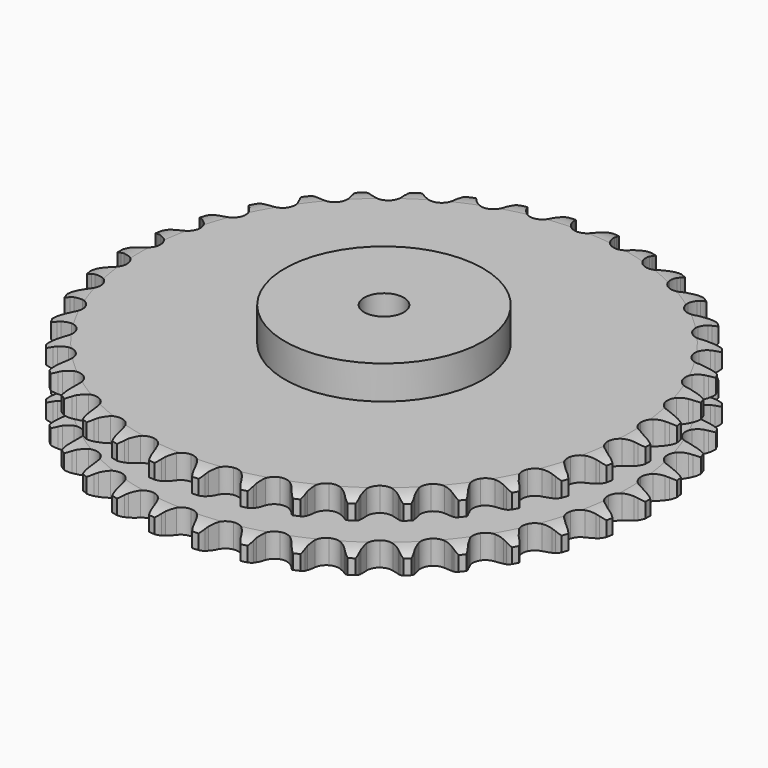
from build123d import *

# Parameters (mm, degrees)
PAD_DEPTH         = 54.6
SKETCH001_R       = 75
PAD001_DEPTH      = 80
SKETCH002_R       = 15
POCKET_DEPTH      = 0.001
POCKET_DEPTH_BACK = 80.001


with BuildPart() as part:
    # Sprocket → Pad (new body)
    with BuildSketch(Plane.XY):
        with BuildLine():
            ThreePointArc((-16.737283, 201.988964), (-13.941774, 198.981837), (-12.034984, 195.345653))
            Line((-12.034984, 195.345653), (-11.105949, 192.800429))
            ThreePointArc((-11.105949, 192.800429), (-9.638977, 189.53386), (-7.717763, 186.512036))
            ThreePointArc((-7.717763, 186.512036), (-4.319859, 183.6542), (0, 182.628629))
            ThreePointArc((0, 182.628629), (4.319859, 183.6542), (7.717763, 186.512036))
            ThreePointArc((7.717763, 186.512036), (9.638977, 189.53386), (11.105949, 192.800429))
            Line((11.105949, 192.800429), (12.034984, 195.345653))
            ThreePointArc((12.034984, 195.345653), (13.941774, 198.981837), (16.737283, 201.988964))
            ThreePointArc((16.737283, 201.988964), (18.999707, 198.562725), (20.281995, 194.662286))
            Line((20.281995, 194.662286), (20.779429, 191.998861))
            ThreePointArc((20.779429, 191.998861), (21.688734, 188.535388), (23.086369, 185.238557))
            ThreePointArc((23.086369, 185.238557), (25.967546, 181.860422), (30.059684, 180.137812))
            ThreePointArc((30.059684, 180.137812), (34.489429, 180.438371), (38.311375, 182.697953))
            Line((38.311375, 182.697953), (42.688386, 188.342903))
            ThreePointArc((42.688386, 188.342903), (43.323878, 189.539913), (44.02368, 190.7005))
            ThreePointArc((44.02368, 190.7005), (46.502961, 193.973243), (49.755299, 196.479232))
            ThreePointArc((49.755299, 196.479232), (51.422926, 192.727339), (52.045735, 188.66904))
            Line((52.045735, 188.66904), (52.097998, 185.960065))
            ThreePointArc((52.097998, 185.960065), (52.424833, 182.394163), (53.260766, 178.912253))
            ThreePointArc((53.260766, 178.912253), (55.546625, 175.105965), (59.299419, 172.733306))
            ThreePointArc((59.299419, 172.733306), (63.718218, 172.300653), (67.859952, 173.900346))
            Line((67.859952, 173.900346), (73.106395, 178.747874))
            ThreePointArc((73.106395, 178.747874), (73.930241, 179.82396), (74.811525, 180.853534))
            ThreePointArc((74.811525, 180.853534), (77.795667, 183.673565), (81.41612, 185.610058))
            ThreePointArc((81.41612, 185.610058), (82.443462, 181.634854), (82.389802, 177.529393))
            Line((82.389802, 177.529393), (81.99547, 174.848764))
            ThreePointArc((81.99547, 174.848764), (81.730919, 171.2777), (81.982347, 167.705689))
            ThreePointArc((81.982347, 167.705689), (83.610536, 163.575074), (86.92162, 160.617085))
            ThreePointArc((86.92162, 160.617085), (91.20894, 159.463023), (95.557487, 160.359191))
            Line((95.557487, 160.359191), (101.530252, 164.277069))
            ThreePointArc((101.530252, 164.277069), (102.51998, 165.202878), (103.558707, 166.073355))
            ThreePointArc((103.558707, 166.073355), (106.966311, 168.363751), (110.856122, 169.677926))
            ThreePointArc((110.856122, 169.677926), (111.215155, 165.587843), (110.48649, 161.547208))
            Line((110.48649, 161.547208), (109.65632, 158.968044))
            ThreePointArc((109.65632, 158.968044), (108.807599, 155.489229), (108.467664, 151.924551))
            ThreePointArc((108.467664, 151.924551), (109.393769, 147.582281), (112.172825, 144.119649))
            ThreePointArc((112.172825, 144.119649), (116.21172, 142.275657), (120.648463, 142.443855))
            Line((120.648463, 142.443855), (127.184629, 145.325213))
            ThreePointArc((127.184629, 145.325213), (128.313241, 146.075492), (129.481077, 146.763128))
            ThreePointArc((129.481077, 146.763128), (133.219193, 148.461413), (137.272257, 149.117422))
            ThreePointArc((137.272257, 149.117422), (136.953188, 145.024028), (135.569395, 141.158436))
            Line((135.569395, 141.158436), (134.32603, 138.75109))
            ThreePointArc((134.32603, 138.75109), (132.916291, 135.459416), (131.994266, 131.999307))
            ThreePointArc((131.994266, 131.999307), (132.193026, 127.563829), (134.364249, 123.691005))
            ThreePointArc((134.364249, 123.691005), (138.044547, 121.207382), (142.448463, 120.643022))
            Line((142.448463, 120.643022), (149.36974, 122.409265))
            ThreePointArc((149.36974, 122.409265), (150.606451, 122.963547), (151.871541, 123.449585))
            ThreePointArc((151.871541, 123.449585), (155.838202, 124.509434), (159.943964, 124.489384))
            ThreePointArc((159.943964, 124.489384), (158.955496, 120.504335), (156.95432, 116.91923))
            Line((156.95432, 116.91923), (155.331677, 114.749368))
            ThreePointArc((155.331677, 114.749368), (153.399373, 111.734624), (151.920408, 108.473467))
            ThreePointArc((151.920408, 108.473467), (151.386401, 104.065768), (152.890566, 99.888392))
            ThreePointArc((152.890566, 99.888392), (156.111879, 96.832886), (160.36284, 95.551362))
            Line((160.36284, 95.551362), (167.480434, 96.154311))
            ThreePointArc((167.480434, 96.154311), (168.79151, 96.497477), (170.119345, 96.76866))
            ThreePointArc((170.119345, 96.76866), (174.206351, 97.161163), (178.252816, 96.4656))
            ThreePointArc((178.252816, 96.4656), (176.621912, 92.697598), (174.057941, 89.490772))
            Line((174.057941, 89.490772), (172.100281, 87.617582))
            ThreePointArc((172.100281, 87.617582), (169.69812, 84.962002), (167.702557, 81.988753))
            ThreePointArc((167.702557, 81.988753), (166.450351, 77.729063), (167.246427, 73.361085))
            ThreePointArc((167.246427, 73.361085), (169.920886, 69.817041), (173.902938, 67.85331))
            Line((173.902938, 67.85331), (181.022699, 67.276518))
            ThreePointArc((181.022699, 67.276518), (182.372377, 67.399208), (183.726736, 67.448138))
            ThreePointArc((183.726736, 67.448138), (187.822606, 67.162588), (191.699395, 65.810486))
            ThreePointArc((191.699395, 65.810486), (189.470542, 62.362313), (186.413714, 59.621239))
            Line((186.413714, 59.621239), (184.174437, 58.095817))
            ThreePointArc((184.174437, 58.095817), (181.367945, 55.871839), (178.910218, 53.267599))
            ThreePointArc((178.910218, 53.267599), (176.973968, 49.272113), (177.040241, 44.832678))
            ThreePointArc((177.040241, 44.832678), (179.094893, 40.896769), (182.699416, 38.304397))
            Line((182.699416, 38.304397), (189.627136, 36.563597))
            ThreePointArc((189.627136, 36.563597), (190.9786, 36.462464), (192.322542, 36.287806))
            ThreePointArc((192.322542, 36.287806), (196.315549, 35.331993), (199.916915, 33.360233))
            ThreePointArc((199.916915, 33.360233), (197.15091, 30.325946), (193.684607, 28.125394))
            Line((193.684607, 28.125394), (191.224795, 26.98935))
            ThreePointArc((191.224795, 26.98935), (188.090525, 25.257637), (185.237675, 23.093445))
            ThreePointArc((185.237675, 23.093445), (182.670197, 19.471148), (182.004859, 15.081353))
            ThreePointArc((182.004859, 15.081353), (183.383659, 10.86094), (186.51233, 7.710639))
            Line((186.51233, 7.710639), (193.059039, 4.853316))
            ThreePointArc((193.059039, 4.853316), (194.375426, 4.531119), (195.67229, 4.137638))
            ThreePointArc((195.67229, 4.137638), (199.453516, 2.537634), (202.681223, 0))
            ThreePointArc((202.681223, 0), (199.453516, -2.537634), (195.67229, -4.137638))
            Line((195.67229, -4.137638), (193.059039, -4.853316))
            ThreePointArc((193.059039, -4.853316), (189.682486, -6.045527), (186.51233, -7.710639))
            ThreePointArc((186.51233, -7.710639), (183.383659, -10.86094), (182.004859, -15.081353))
            ThreePointArc((182.004859, -15.081353), (182.670197, -19.471148), (185.237675, -23.093445))
            Line((185.237675, -23.093445), (191.224795, -26.98935))
            ThreePointArc((191.224795, -26.98935), (192.470196, -27.523823), (193.684607, -28.125394))
            ThreePointArc((193.684607, -28.125394), (197.15091, -30.325946), (199.916915, -33.360233))
            ThreePointArc((199.916915, -33.360233), (196.315549, -35.331993), (192.322542, -36.287806))
            Line((192.322542, -36.287806), (189.627136, -36.563597))
            ThreePointArc((189.627136, -36.563597), (186.100403, -37.183785), (182.699416, -38.304397))
            ThreePointArc((182.699416, -38.304397), (179.094893, -40.896769), (177.040241, -44.832678))
            ThreePointArc((177.040241, -44.832678), (176.973968, -49.272113), (178.910218, -53.267599))
            Line((178.910218, -53.267599), (184.174437, -58.095817))
            ThreePointArc((184.174437, -58.095817), (185.314881, -58.827987), (186.413714, -59.621239))
            ThreePointArc((186.413714, -59.621239), (189.470542, -62.362313), (191.699395, -65.810486))
            ThreePointArc((191.699395, -65.810486), (187.822606, -67.162588), (183.726736, -67.448138))
            Line((183.726736, -67.448138), (181.022699, -67.276518))
            ThreePointArc((181.022699, -67.276518), (177.441986, -67.307766), (173.902938, -67.85331))
            ThreePointArc((173.902938, -67.85331), (169.920886, -69.817041), (167.246427, -73.361085))
            ThreePointArc((167.246427, -73.361085), (166.450351, -77.729063), (167.702557, -81.988753))
            Line((167.702557, -81.988753), (172.100281, -87.617582))
            ThreePointArc((172.100281, -87.617582), (173.104659, -88.527477), (174.057941, -89.490772))
            ThreePointArc((174.057941, -89.490772), (176.621912, -92.697598), (178.252816, -96.4656))
            ThreePointArc((178.252816, -96.4656), (174.206351, -97.161163), (170.119345, -96.76866))
            Line((170.119345, -96.76866), (167.480434, -96.154311))
            ThreePointArc((167.480434, -96.154311), (163.943414, -95.595767), (160.36284, -95.551362))
            ThreePointArc((160.36284, -95.551362), (156.111879, -96.832886), (152.890566, -99.888392))
            ThreePointArc((152.890566, -99.888392), (151.386401, -104.065768), (151.920408, -108.473467))
            Line((151.920408, -108.473467), (155.331677, -114.749368))
            ThreePointArc((155.331677, -114.749368), (156.172593, -115.812168), (156.95432, -116.91923))
            ThreePointArc((156.95432, -116.91923), (158.955496, -120.504335), (159.943964, -124.489384))
            ThreePointArc((159.943964, -124.489384), (155.838202, -124.509434), (151.871541, -123.449585))
            Line((151.871541, -123.449585), (149.36974, -122.409265))
            ThreePointArc((149.36974, -122.409265), (145.972894, -121.276165), (142.448463, -120.643022))
            ThreePointArc((142.448463, -120.643022), (138.044547, -121.207382), (134.364249, -123.691005))
            ThreePointArc((134.364249, -123.691005), (132.193026, -127.563829), (131.994266, -131.999307))
            Line((131.994266, -131.999307), (134.32603, -138.75109))
            ThreePointArc((134.32603, -138.75109), (134.980546, -139.937805), (135.569395, -141.158436))
            ThreePointArc((135.569395, -141.158436), (136.953188, -145.024028), (137.272257, -149.117422))
            ThreePointArc((137.272257, -149.117422), (133.219193, -148.461413), (129.481077, -146.763128))
            Line((129.481077, -146.763128), (127.184629, -145.325213))
            ThreePointArc((127.184629, -145.325213), (124.020613, -143.648464), (120.648463, -142.443855))
            ThreePointArc((120.648463, -142.443855), (116.21172, -142.275657), (112.172825, -144.119649))
            ThreePointArc((112.172825, -144.119649), (109.393769, -147.582281), (108.467664, -151.924551))
            Line((108.467664, -151.924551), (109.65632, -158.968044))
            ThreePointArc((109.65632, -158.968044), (110.106582, -160.246303), (110.48649, -161.547208))
            ThreePointArc((110.48649, -161.547208), (111.215155, -165.587843), (110.856122, -169.677926))
            ThreePointArc((110.856122, -169.677926), (106.966311, -168.363751), (103.558707, -166.073355))
            Line((103.558707, -166.073355), (101.530252, -164.277069))
            ThreePointArc((101.530252, -164.277069), (98.685373, -162.102409), (95.557487, -160.359191))
            ThreePointArc((95.557487, -160.359191), (91.20894, -159.463023), (86.92162, -160.617085))
            ThreePointArc((86.92162, -160.617085), (83.610536, -163.575074), (81.982347, -167.705689))
            Line((81.982347, -167.705689), (81.99547, -174.848764))
            ThreePointArc((81.99547, -174.848764), (82.229197, -176.1837), (82.389802, -177.529393))
            ThreePointArc((82.389802, -177.529393), (82.443462, -181.634854), (81.41612, -185.610058))
            ThreePointArc((81.41612, -185.610058), (77.795667, -183.673565), (74.811525, -180.853534))
            Line((74.811525, -180.853534), (73.106395, -178.747874))
            ThreePointArc((73.106395, -178.747874), (70.658254, -176.134622), (67.859952, -173.900346))
            ThreePointArc((67.859952, -173.900346), (63.718218, -172.300653), (59.299419, -172.733306))
            ThreePointArc((59.299419, -172.733306), (55.546625, -175.105965), (53.260766, -178.912253))
            Line((53.260766, -178.912253), (52.097998, -185.960065))
            ThreePointArc((52.097998, -185.960065), (52.108814, -187.315265), (52.045735, -188.66904))
            ThreePointArc((52.045735, -188.66904), (51.422926, -192.727339), (49.755299, -196.479232))
            ThreePointArc((49.755299, -196.479232), (46.502961, -193.973243), (44.02368, -190.7005))
            Line((44.02368, -190.7005), (42.688386, -188.342903))
            ThreePointArc((42.688386, -188.342903), (40.703762, -185.362341), (38.311375, -182.697953))
            ThreePointArc((38.311375, -182.697953), (34.489429, -180.438371), (30.059684, -180.137812))
            ThreePointArc((30.059684, -180.137812), (25.967546, -181.860422), (23.086369, -185.238557))
            Line((23.086369, -185.238557), (20.779429, -191.998861))
            ThreePointArc((20.779429, -191.998861), (20.567038, -193.337358), (20.281995, -194.662286))
            ThreePointArc((20.281995, -194.662286), (18.999707, -198.562725), (16.737283, -201.988964))
            ThreePointArc((16.737283, -201.988964), (13.941774, -198.981837), (12.034984, -195.345653))
            Line((12.034984, -195.345653), (11.105949, -192.800429))
            ThreePointArc((11.105949, -192.800429), (9.638977, -189.53386), (7.717763, -186.512036))
            ThreePointArc((7.717763, -186.512036), (4.319859, -183.6542), (0, -182.628629))
            ThreePointArc((0, -182.628629), (-4.319859, -183.6542), (-7.717763, -186.512036))
            Line((-7.717763, -186.512036), (-11.105949, -192.800429))
            ThreePointArc((-11.105949, -192.800429), (-11.535753, -194.085712), (-12.034984, -195.345653))
            ThreePointArc((-12.034984, -195.345653), (-13.941774, -198.981837), (-16.737283, -201.988964))
            ThreePointArc((-16.737283, -201.988964), (-18.999707, -198.562725), (-20.281995, -194.662286))
            Line((-20.281995, -194.662286), (-20.779429, -191.998861))
            ThreePointArc((-20.779429, -191.998861), (-21.688734, -188.535388), (-23.086369, -185.238557))
            ThreePointArc((-23.086369, -185.238557), (-25.967546, -181.860422), (-30.059684, -180.137812))
            ThreePointArc((-30.059684, -180.137812), (-34.489429, -180.438371), (-38.311375, -182.697953))
            Line((-38.311375, -182.697953), (-42.688386, -188.342903))
            ThreePointArc((-42.688386, -188.342903), (-43.323878, -189.539913), (-44.02368, -190.7005))
            ThreePointArc((-44.02368, -190.7005), (-46.502961, -193.973243), (-49.755299, -196.479232))
            ThreePointArc((-49.755299, -196.479232), (-51.422926, -192.727339), (-52.045735, -188.66904))
            Line((-52.045735, -188.66904), (-52.097998, -185.960065))
            ThreePointArc((-52.097998, -185.960065), (-52.424833, -182.394163), (-53.260766, -178.912253))
            ThreePointArc((-53.260766, -178.912253), (-55.546625, -175.105965), (-59.299419, -172.733306))
            ThreePointArc((-59.299419, -172.733306), (-63.718218, -172.300653), (-67.859952, -173.900346))
            Line((-67.859952, -173.900346), (-73.106395, -178.747874))
            ThreePointArc((-73.106395, -178.747874), (-73.930241, -179.82396), (-74.811525, -180.853534))
            ThreePointArc((-74.811525, -180.853534), (-77.795667, -183.673565), (-81.41612, -185.610058))
            ThreePointArc((-81.41612, -185.610058), (-82.443462, -181.634854), (-82.389802, -177.529393))
            Line((-82.389802, -177.529393), (-81.99547, -174.848764))
            ThreePointArc((-81.99547, -174.848764), (-81.730919, -171.2777), (-81.982347, -167.705689))
            ThreePointArc((-81.982347, -167.705689), (-83.610536, -163.575074), (-86.92162, -160.617085))
            ThreePointArc((-86.92162, -160.617085), (-91.20894, -159.463023), (-95.557487, -160.359191))
            Line((-95.557487, -160.359191), (-101.530252, -164.277069))
            ThreePointArc((-101.530252, -164.277069), (-102.51998, -165.202878), (-103.558707, -166.073355))
            ThreePointArc((-103.558707, -166.073355), (-106.966311, -168.363751), (-110.856122, -169.677926))
            ThreePointArc((-110.856122, -169.677926), (-111.215155, -165.587843), (-110.48649, -161.547208))
            Line((-110.48649, -161.547208), (-109.65632, -158.968044))
            ThreePointArc((-109.65632, -158.968044), (-108.807599, -155.489229), (-108.467664, -151.924551))
            ThreePointArc((-108.467664, -151.924551), (-109.393769, -147.582281), (-112.172825, -144.119649))
            ThreePointArc((-112.172825, -144.119649), (-116.21172, -142.275657), (-120.648463, -142.443855))
            Line((-120.648463, -142.443855), (-127.184629, -145.325213))
            ThreePointArc((-127.184629, -145.325213), (-128.313241, -146.075492), (-129.481077, -146.763128))
            ThreePointArc((-129.481077, -146.763128), (-133.219193, -148.461413), (-137.272257, -149.117422))
            ThreePointArc((-137.272257, -149.117422), (-136.953188, -145.024028), (-135.569395, -141.158436))
            Line((-135.569395, -141.158436), (-134.32603, -138.75109))
            ThreePointArc((-134.32603, -138.75109), (-132.916291, -135.459416), (-131.994266, -131.999307))
            ThreePointArc((-131.994266, -131.999307), (-132.193026, -127.563829), (-134.364249, -123.691005))
            ThreePointArc((-134.364249, -123.691005), (-138.044547, -121.207382), (-142.448463, -120.643022))
            Line((-142.448463, -120.643022), (-149.36974, -122.409265))
            ThreePointArc((-149.36974, -122.409265), (-150.606451, -122.963547), (-151.871541, -123.449585))
            ThreePointArc((-151.871541, -123.449585), (-155.838202, -124.509434), (-159.943964, -124.489384))
            ThreePointArc((-159.943964, -124.489384), (-158.955496, -120.504335), (-156.95432, -116.91923))
            Line((-156.95432, -116.91923), (-155.331677, -114.749368))
            ThreePointArc((-155.331677, -114.749368), (-153.399373, -111.734624), (-151.920408, -108.473467))
            ThreePointArc((-151.920408, -108.473467), (-151.386401, -104.065768), (-152.890566, -99.888392))
            ThreePointArc((-152.890566, -99.888392), (-156.111879, -96.832886), (-160.36284, -95.551362))
            Line((-160.36284, -95.551362), (-167.480434, -96.154311))
            ThreePointArc((-167.480434, -96.154311), (-168.79151, -96.497477), (-170.119345, -96.76866))
            ThreePointArc((-170.119345, -96.76866), (-174.206351, -97.161163), (-178.252816, -96.4656))
            ThreePointArc((-178.252816, -96.4656), (-176.621912, -92.697598), (-174.057941, -89.490772))
            Line((-174.057941, -89.490772), (-172.100281, -87.617582))
            ThreePointArc((-172.100281, -87.617582), (-169.69812, -84.962002), (-167.702557, -81.988753))
            ThreePointArc((-167.702557, -81.988753), (-166.450351, -77.729063), (-167.246427, -73.361085))
            ThreePointArc((-167.246427, -73.361085), (-169.920886, -69.817041), (-173.902938, -67.85331))
            Line((-173.902938, -67.85331), (-181.022699, -67.276518))
            ThreePointArc((-181.022699, -67.276518), (-182.372377, -67.399208), (-183.726736, -67.448138))
            ThreePointArc((-183.726736, -67.448138), (-187.822606, -67.162588), (-191.699395, -65.810486))
            ThreePointArc((-191.699395, -65.810486), (-189.470542, -62.362313), (-186.413714, -59.621239))
            Line((-186.413714, -59.621239), (-184.174437, -58.095817))
            ThreePointArc((-184.174437, -58.095817), (-181.367945, -55.871839), (-178.910218, -53.267599))
            ThreePointArc((-178.910218, -53.267599), (-176.973968, -49.272113), (-177.040241, -44.832678))
            ThreePointArc((-177.040241, -44.832678), (-179.094893, -40.896769), (-182.699416, -38.304397))
            Line((-182.699416, -38.304397), (-189.627136, -36.563597))
            ThreePointArc((-189.627136, -36.563597), (-190.9786, -36.462464), (-192.322542, -36.287806))
            ThreePointArc((-192.322542, -36.287806), (-196.315549, -35.331993), (-199.916915, -33.360233))
            ThreePointArc((-199.916915, -33.360233), (-197.15091, -30.325946), (-193.684607, -28.125394))
            Line((-193.684607, -28.125394), (-191.224795, -26.98935))
            ThreePointArc((-191.224795, -26.98935), (-188.090525, -25.257637), (-185.237675, -23.093445))
            ThreePointArc((-185.237675, -23.093445), (-182.670197, -19.471148), (-182.004859, -15.081353))
            ThreePointArc((-182.004859, -15.081353), (-183.383659, -10.86094), (-186.51233, -7.710639))
            Line((-186.51233, -7.710639), (-193.059039, -4.853316))
            ThreePointArc((-193.059039, -4.853316), (-194.375426, -4.531119), (-195.67229, -4.137638))
            ThreePointArc((-195.67229, -4.137638), (-199.453516, -2.537634), (-202.681223, 0))
            ThreePointArc((-202.681223, 0), (-199.453516, 2.537634), (-195.67229, 4.137638))
            Line((-195.67229, 4.137638), (-193.059039, 4.853316))
            ThreePointArc((-193.059039, 4.853316), (-189.682486, 6.045527), (-186.51233, 7.710639))
            ThreePointArc((-186.51233, 7.710639), (-183.383659, 10.86094), (-182.004859, 15.081353))
            ThreePointArc((-182.004859, 15.081353), (-182.670197, 19.471148), (-185.237675, 23.093445))
            Line((-185.237675, 23.093445), (-191.224795, 26.98935))
            ThreePointArc((-191.224795, 26.98935), (-192.470196, 27.523823), (-193.684607, 28.125394))
            ThreePointArc((-193.684607, 28.125394), (-197.15091, 30.325946), (-199.916915, 33.360233))
            ThreePointArc((-199.916915, 33.360233), (-196.315549, 35.331993), (-192.322542, 36.287806))
            Line((-192.322542, 36.287806), (-189.627136, 36.563597))
            ThreePointArc((-189.627136, 36.563597), (-186.100403, 37.183785), (-182.699416, 38.304397))
            ThreePointArc((-182.699416, 38.304397), (-179.094893, 40.896769), (-177.040241, 44.832678))
            ThreePointArc((-177.040241, 44.832678), (-176.973968, 49.272113), (-178.910218, 53.267599))
            Line((-178.910218, 53.267599), (-184.174437, 58.095817))
            ThreePointArc((-184.174437, 58.095817), (-185.314881, 58.827987), (-186.413714, 59.621239))
            ThreePointArc((-186.413714, 59.621239), (-189.470542, 62.362313), (-191.699395, 65.810486))
            ThreePointArc((-191.699395, 65.810486), (-187.822606, 67.162588), (-183.726736, 67.448138))
            Line((-183.726736, 67.448138), (-181.022699, 67.276518))
            ThreePointArc((-181.022699, 67.276518), (-177.441986, 67.307766), (-173.902938, 67.85331))
            ThreePointArc((-173.902938, 67.85331), (-169.920886, 69.817041), (-167.246427, 73.361085))
            ThreePointArc((-167.246427, 73.361085), (-166.450351, 77.729063), (-167.702557, 81.988753))
            Line((-167.702557, 81.988753), (-172.100281, 87.617582))
            ThreePointArc((-172.100281, 87.617582), (-173.104659, 88.527477), (-174.057941, 89.490772))
            ThreePointArc((-174.057941, 89.490772), (-176.621912, 92.697598), (-178.252816, 96.4656))
            ThreePointArc((-178.252816, 96.4656), (-174.206351, 97.161163), (-170.119345, 96.76866))
            Line((-170.119345, 96.76866), (-167.480434, 96.154311))
            ThreePointArc((-167.480434, 96.154311), (-163.943414, 95.595767), (-160.36284, 95.551362))
            ThreePointArc((-160.36284, 95.551362), (-156.111879, 96.832886), (-152.890566, 99.888392))
            ThreePointArc((-152.890566, 99.888392), (-151.386401, 104.065768), (-151.920408, 108.473467))
            Line((-151.920408, 108.473467), (-155.331677, 114.749368))
            ThreePointArc((-155.331677, 114.749368), (-156.172593, 115.812168), (-156.95432, 116.91923))
            ThreePointArc((-156.95432, 116.91923), (-158.955496, 120.504335), (-159.943964, 124.489384))
            ThreePointArc((-159.943964, 124.489384), (-155.838202, 124.509434), (-151.871541, 123.449585))
            Line((-151.871541, 123.449585), (-149.36974, 122.409265))
            ThreePointArc((-149.36974, 122.409265), (-145.972894, 121.276165), (-142.448463, 120.643022))
            ThreePointArc((-142.448463, 120.643022), (-138.044547, 121.207382), (-134.364249, 123.691005))
            ThreePointArc((-134.364249, 123.691005), (-132.193026, 127.563829), (-131.994266, 131.999307))
            Line((-131.994266, 131.999307), (-134.32603, 138.75109))
            ThreePointArc((-134.32603, 138.75109), (-134.980546, 139.937805), (-135.569395, 141.158436))
            ThreePointArc((-135.569395, 141.158436), (-136.953188, 145.024028), (-137.272257, 149.117422))
            ThreePointArc((-137.272257, 149.117422), (-133.219193, 148.461413), (-129.481077, 146.763128))
            Line((-129.481077, 146.763128), (-127.184629, 145.325213))
            ThreePointArc((-127.184629, 145.325213), (-124.020613, 143.648464), (-120.648463, 142.443855))
            ThreePointArc((-120.648463, 142.443855), (-116.21172, 142.275657), (-112.172825, 144.119649))
            ThreePointArc((-112.172825, 144.119649), (-109.393769, 147.582281), (-108.467664, 151.924551))
            Line((-108.467664, 151.924551), (-109.65632, 158.968044))
            ThreePointArc((-109.65632, 158.968044), (-110.106582, 160.246303), (-110.48649, 161.547208))
            ThreePointArc((-110.48649, 161.547208), (-111.215155, 165.587843), (-110.856122, 169.677926))
            ThreePointArc((-110.856122, 169.677926), (-106.966311, 168.363751), (-103.558707, 166.073355))
            Line((-103.558707, 166.073355), (-101.530252, 164.277069))
            ThreePointArc((-101.530252, 164.277069), (-98.685373, 162.102409), (-95.557487, 160.359191))
            ThreePointArc((-95.557487, 160.359191), (-91.20894, 159.463023), (-86.92162, 160.617085))
            ThreePointArc((-86.92162, 160.617085), (-83.610536, 163.575074), (-81.982347, 167.705689))
            Line((-81.982347, 167.705689), (-81.99547, 174.848764))
            ThreePointArc((-81.99547, 174.848764), (-82.229197, 176.1837), (-82.389802, 177.529393))
            ThreePointArc((-82.389802, 177.529393), (-82.443462, 181.634854), (-81.41612, 185.610058))
            ThreePointArc((-81.41612, 185.610058), (-77.795667, 183.673565), (-74.811525, 180.853534))
            Line((-74.811525, 180.853534), (-73.106395, 178.747874))
            ThreePointArc((-73.106395, 178.747874), (-70.658254, 176.134622), (-67.859952, 173.900346))
            ThreePointArc((-67.859952, 173.900346), (-63.718218, 172.300653), (-59.299419, 172.733306))
            ThreePointArc((-59.299419, 172.733306), (-55.546625, 175.105965), (-53.260766, 178.912253))
            Line((-53.260766, 178.912253), (-52.097998, 185.960065))
            ThreePointArc((-52.097998, 185.960065), (-52.108814, 187.315265), (-52.045735, 188.66904))
            ThreePointArc((-52.045735, 188.66904), (-51.422926, 192.727339), (-49.755299, 196.479232))
            ThreePointArc((-49.755299, 196.479232), (-46.502961, 193.973243), (-44.02368, 190.7005))
            Line((-44.02368, 190.7005), (-42.688386, 188.342903))
            ThreePointArc((-42.688386, 188.342903), (-40.703762, 185.362341), (-38.311375, 182.697953))
            ThreePointArc((-38.311375, 182.697953), (-34.489429, 180.438371), (-30.059684, 180.137812))
            ThreePointArc((-30.059684, 180.137812), (-25.967546, 181.860422), (-23.086369, 185.238557))
            Line((-23.086369, 185.238557), (-20.779429, 191.998861))
            ThreePointArc((-20.779429, 191.998861), (-20.567038, 193.337358), (-20.281995, 194.662286))
            ThreePointArc((-20.281995, 194.662286), (-18.999707, 198.562725), (-16.737283, 201.988964))
        make_face()
    extrude(amount=PAD_DEPTH)

    # Sketch → Groove (revolve, cut)
    with BuildSketch(Plane.XZ):
        with BuildLine():
            ThreePointArc((185.248368, 0), (192.731683, 0.887302), (199.8, 3.5))
            Line((199.8, 3.5), (199.8, 14.7))
            ThreePointArc((199.8, 14.7), (192.731683, 17.312698), (185.248368, 18.2))
            Line((75, 18.2), (185.248368, 18.2))
            Line((75, 36.4), (75, 18.2))
            Line((185.248368, 36.4), (75, 36.4))
            ThreePointArc((185.248368, 36.4), (192.731683, 37.287302), (199.8, 39.9))
            Line((199.8, 39.9), (199.8, 51.1))
            ThreePointArc((199.8, 51.1), (192.731683, 53.712698), (185.248368, 54.6))
            Line((185.248368, 54.6), (209.8, 54.6))
            Line((209.8, 54.6), (209.8, 0))
            Line((185.248368, 0), (209.8, 0))
        make_face()
    revolve(axis=Axis((0, 0, 0), (0, 0, 1)), mode=Mode.SUBTRACT)

    # Sketch001 → Pad001 (join)
    with BuildSketch(Plane.XY):
        Circle(SKETCH001_R)
    extrude(amount=PAD001_DEPTH)

    # Sketch002 → Pocket (cut, two sides)
    with BuildSketch(Plane.XY) as pocket_sk:
        Circle(SKETCH002_R)
    extrude(amount=-POCKET_DEPTH, mode=Mode.SUBTRACT)
    extrude(pocket_sk.sketch, amount=POCKET_DEPTH_BACK, mode=Mode.SUBTRACT)


solid = part.part
